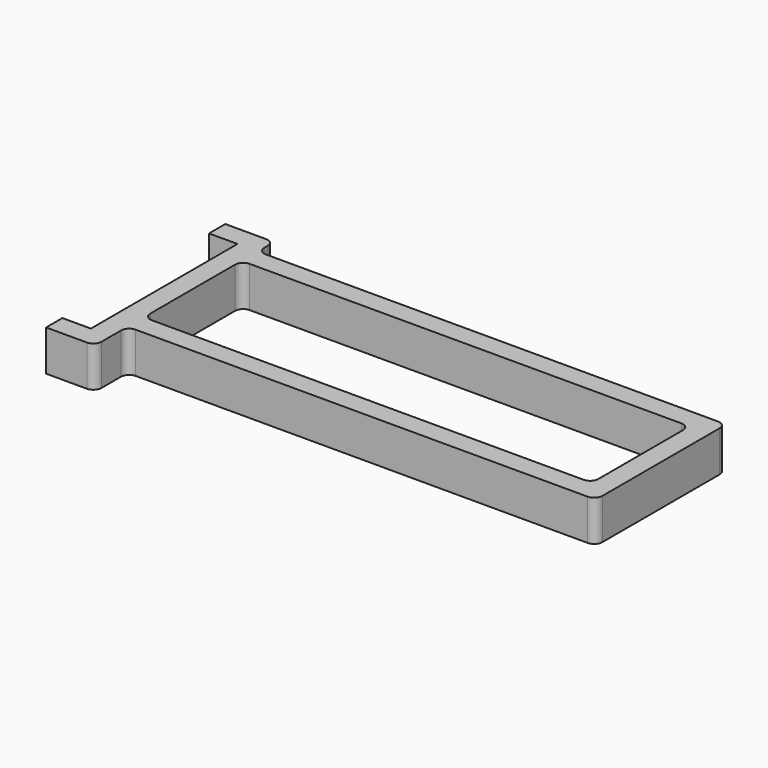
from build123d import *

# Parameters (mm, degrees)
F0_W     = 152.4
F0_H     = 50.8
F0_W_2   = 139.7
F0_H_2   = 38.1
F1_DEPTH = 12.7
F2_W     = 27.94
F2_H     = 69.85
F2_W_2   = 8.89
F2_H_2   = 57.15
F3_DEPTH = 12.7
F4_R     = 2.54
F6_DEPTH = 12.701


with BuildPart() as f1:
    # F0 (on Top) → F1 (new body)
    with BuildSketch(Plane.XY):
        Rectangle(F0_W, F0_H)
        Rectangle(F0_W_2, F0_H_2, mode=Mode.SUBTRACT)
    extrude(amount=F1_DEPTH)

    # F2 (on Top) → F3 (join)
    with BuildSketch(Plane.XY):
        with Locations((-83.82, -3.175)):
            Rectangle(F2_W, F2_H)
        with Locations((-80.645, -3.175)):
            Rectangle(F2_W_2, F2_H_2, mode=Mode.SUBTRACT)
    extrude(amount=F3_DEPTH)

    # F4
    f4_edges = [f1.edges().sort_by_distance(p)[0] for p in [
        (-69.85, 19.05, 6.35),
        (69.85, 19.05, 6.35),
        (69.85, -19.05, 6.35),
        (-69.85, -19.05, 6.35),
        (-69.85, 25.4, 6.35),
        (76.2, 25.4, 6.35),
        (76.2, -25.4, 6.35),
        (-69.85, -25.4, 6.35),
        (-69.85, 31.75, 6.35),
        (-69.85, -38.1, 6.35),
    ]]
    fillet(f4_edges, radius=F4_R)

    # F5 (on face) → F6 (cut, through all)
    with BuildSketch(Plane(origin=(0, 0, 0), x_dir=(1, 0, 0), z_dir=(0, 0, -1))):
        Polygon((-97.79, -31.75), (-85.09, -31.75), (-85.09, -25.4), (-85.09, 31.75), (-85.09, 38.1), (-97.79, 38.1), align=None)
    extrude(amount=-F6_DEPTH, mode=Mode.SUBTRACT)


solid = f1.part
